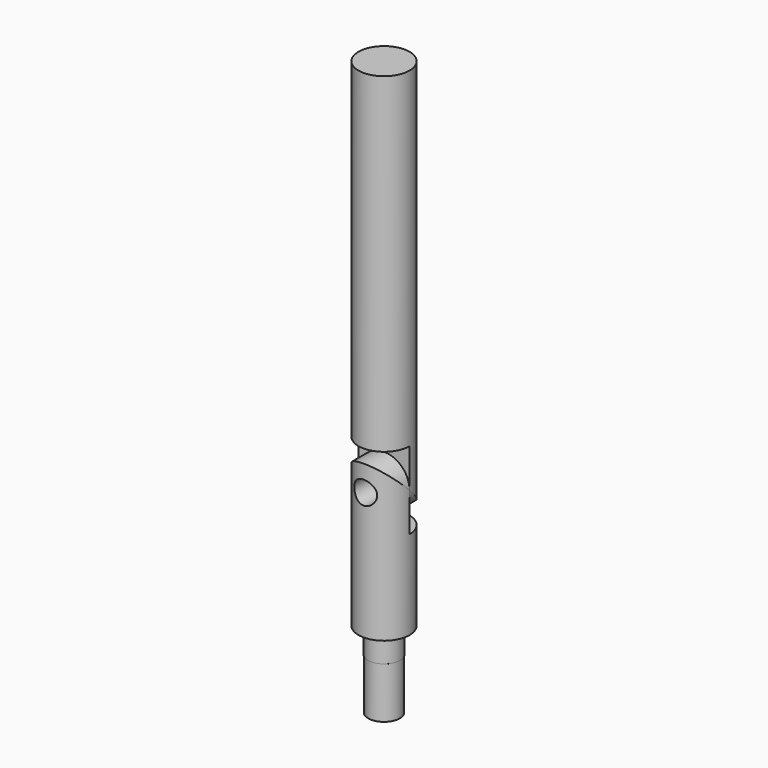
from build123d import *

# Parameters (mm, degrees)
F0_W      = 3.175
F0_H      = 50.8
F2_W      = 12.7
F2_H      = 9.652
F3_DEPTH  = 3.176
F4_R      = 1.4224
F5_DEPTH  = 3.176
F6_W      = 9.525
F6_H      = 12.7
F7_ANGLE  = 180
F8_W      = 3.175
F8_H      = 20.701
F10_DEPTH = 3.1760001015
F11_DEPTH = 3.1760001
F12_ANGLE = 180
F14_D     = 3.9878
F14_DEPTH = 6.35
F14_TIP   = 1.1980559883
F16_D     = 2.2606
F16_DEPTH = 3.1760001


with BuildPart() as f1:
    # F0 (on Front) → F1 (revolve)
    with BuildSketch(Plane.XZ):
        with Locations((1.5875, 20.574)):
            Rectangle(F0_W, F0_H)
    revolve(axis=Axis((0, 0, -0.0774394058), (0, 0, -1)))

    # F2 (on Front) → F3 (cut, through all)
    with BuildSketch(Plane.XZ):
        Rectangle(F2_W, F2_H)
    extrude(amount=F3_DEPTH, mode=Mode.SUBTRACT)

    # F4 (on Front) → F5 (cut, through all)
    with BuildSketch(Plane.XZ):
        Circle(F4_R)
    extrude(amount=-F5_DEPTH, mode=Mode.SUBTRACT)

    # F6 (on Top) → F7 (revolve, cut)
    with BuildSketch(Plane.XY):
        with Locations((-7.9375, 0)):
            Rectangle(F6_W, F6_H)
    revolve(axis=Axis((0, -3.175, 0), (0, -1, 0)), revolution_arc=F7_ANGLE, mode=Mode.SUBTRACT)


with BuildPart() as f9:
    # F8 (on Front) → F9 (revolve)
    with BuildSketch(Plane.XZ):
        with Locations((1.5875, -5.5245)):
            Rectangle(F8_W, F8_H)
    revolve(axis=Axis((0, 0, -13.9308571815), (0, 0, -1)))

    # F2 (on Front) → F10 (cut, through all)
    with BuildSketch(Plane.XZ):
        Rectangle(F2_W, F2_H)
    extrude(amount=-F10_DEPTH, mode=Mode.SUBTRACT)

    # F4 (on Front) → F11 (cut, through all)
    with BuildSketch(Plane.XZ):
        Circle(F4_R)
    extrude(amount=F11_DEPTH, mode=Mode.SUBTRACT)

    # F6 (on Top) → F12 (revolve, cut)
    with BuildSketch(Plane.XY):
        with Locations((-7.9375, 0)):
            Rectangle(F6_W, F6_H)
    revolve(axis=Axis((0, -3.175, 0), (0, 1, 0)), revolution_arc=F12_ANGLE, mode=Mode.SUBTRACT)

    # F14
    with Locations(Plane(origin=(0, 0, -15.875), x_dir=(1, 0, 0), z_dir=(0, 0, -1))):
        with Locations((0, 0)):
            Hole(F14_D / 2, depth=F14_DEPTH)
            with Locations((0, 0, -(F14_DEPTH + F14_TIP / 2))):  # 118° drill point
                Cone(0, F14_D / 2, F14_TIP, mode=Mode.SUBTRACT)

    # F16 (through all, one way)
    with BuildSketch(Plane.XZ):
        with Locations((0, -12.7)):
            Circle(F16_D / 2)
    extrude(amount=-F16_DEPTH, mode=Mode.SUBTRACT)


with BuildPart() as f18:
    # F17 (on Front) → F18 (revolve)
    with BuildSketch(Plane.XZ):
        Polygon((-1.9558, -25.4), (0, -25.4), (0, -9.525), (-1.9939, -9.525), (-1.9939, -19.0280029547), (-1.9558, -19.05), align=None)
    revolve(axis=Axis((0, 0, -19.8815774623), (0, 0, -1)))


solid = Compound([f1.part, f9.part, f18.part])
